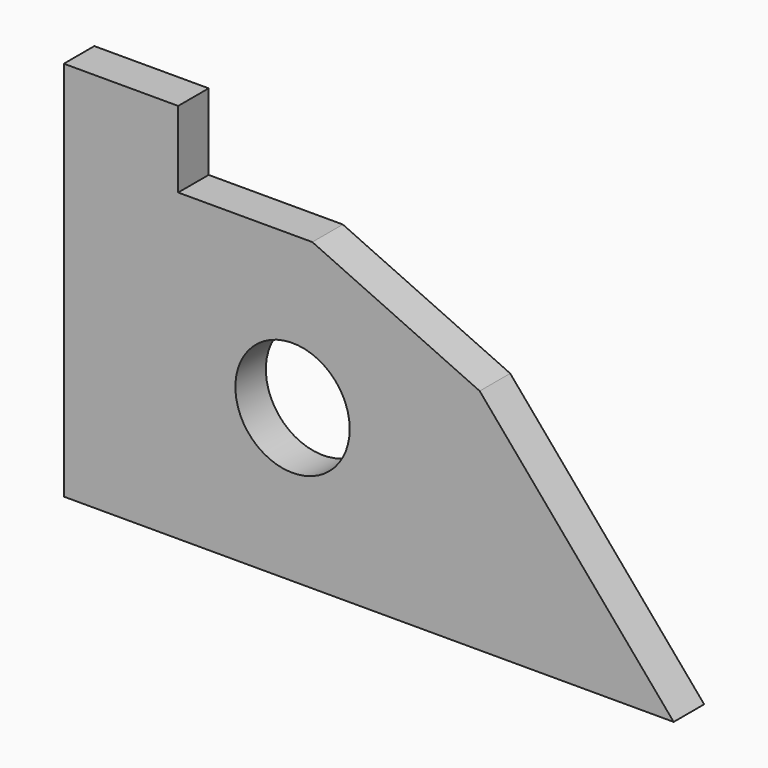
from build123d import *

# Parameters (mm, degrees)
F0_R     = 9.525
F1_DEPTH = 6.35


with BuildPart() as f1:
    # F0 (on Front) → F1 (new body)
    with BuildSketch(Plane.XZ):
        Polygon((-38.1, 38.1), (-38.1, -25.4), (63.5, -25.4), (31.182074, 12.621632), (3.302, 25.4), (-19.05, 25.4), (-19.05, 38.1), align=None)
        Circle(F0_R, mode=Mode.SUBTRACT)
    extrude(amount=F1_DEPTH)


solid = f1.part
